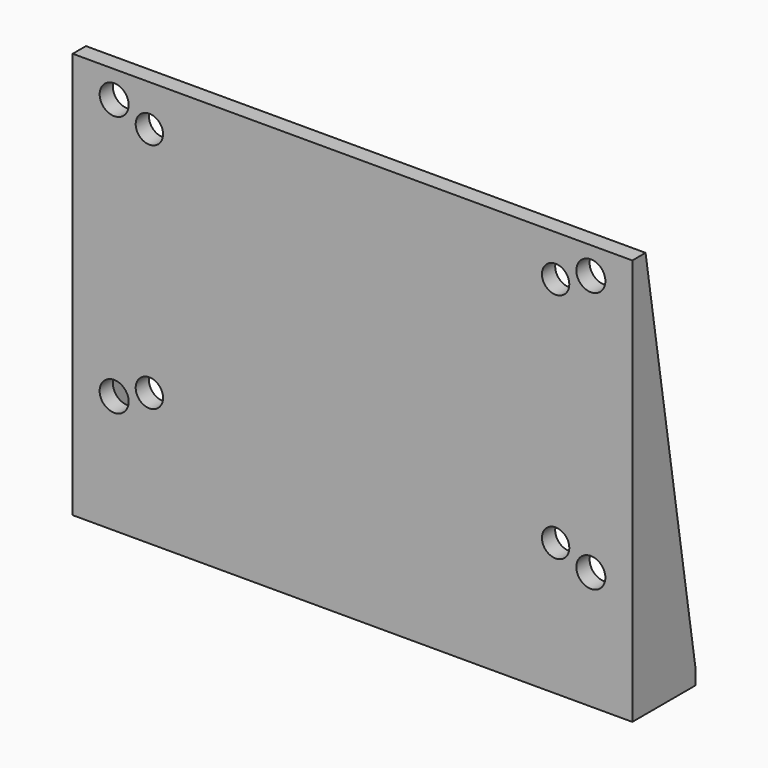
from build123d import *

# Parameters (mm, degrees)
SKETCH_W        = 67.5
SKETCH_H        = 49
SKETCH_R        = 1.75
PAD_DEPTH       = 2
SKETCH001_W     = 67.5
SKETCH001_H     = 2
PAD001_DEPTH    = 7.5
PAD002_DEPTH    = 1.5
SKETCH003_R     = 1.6
POCKET_DEPTH    = 2.001
FILLET_R        = 1
SKETCH004_R     = 1.65
POCKET001_DEPTH = 9.501


with BuildPart() as part:
    # Sketch → Pad (new body)
    with BuildSketch(Plane.XZ):
        with Locations((0, 24.5)):
            Rectangle(SKETCH_W, SKETCH_H)
        with Locations((-28.75, 45.75)):
            Circle(SKETCH_R, mode=Mode.SUBTRACT)
        with Locations((-28.75, 14.25)):
            Circle(SKETCH_R, mode=Mode.SUBTRACT)
        with Locations((28.75, 45.75)):
            Circle(SKETCH_R, mode=Mode.SUBTRACT)
        with Locations((28.75, 14.25)):
            Circle(SKETCH_R, mode=Mode.SUBTRACT)
    extrude(amount=PAD_DEPTH)

    # Sketch001 (on Face9 of Pad) → Pad001 (join)
    with BuildSketch(Plane(origin=(0, 0, 0), x_dir=(1, 0, 0), z_dir=(0, 1, 0))):
        with Locations((0, -1)):
            Rectangle(SKETCH001_W, SKETCH001_H)
    extrude(amount=PAD001_DEPTH)

    # Sketch002 (on Face12 of Pad001) → Pad002 (join)
    with BuildSketch(Plane(origin=(33.75, 0, 0), x_dir=(0, 0, 1), z_dir=(1, 0, 0))):
        Polygon((2, 0), (2, -7.5), (49, 0), align=None)
    pad002 = extrude(amount=-PAD002_DEPTH)

    # Mirrored: Pad002 across YZ
    add(pad002.mirror(Plane.YZ))

    # Sketch003 (on Face13 of Mirrored) → Pocket (cut, through all)
    with BuildSketch(Plane(origin=(0, 0, 2), x_dir=(-1, 0, 0), z_dir=(0, 0, 1))):
        with Locations((-22.5, -3.75)):
            Circle(SKETCH003_R)
        with Locations((22.5, -3.75)):
            Circle(SKETCH003_R)
    extrude(amount=-POCKET_DEPTH, mode=Mode.SUBTRACT)

    # Fillet
    fillet_edges = [part.edges().sort_by_distance(p)[0] for p in [
        (0, 0, 2),
    ]]
    fillet(fillet_edges, radius=FILLET_R)

    # Sketch004 (on Face15 of Fillet) → Pocket001 (cut, through all)
    with BuildSketch(Plane.XZ.offset(2)):
        with Locations((-24.5, 44)):
            Circle(SKETCH004_R)
        with Locations((24.5, 44)):
            Circle(SKETCH004_R)
        with Locations((24.5, 16)):
            Circle(SKETCH004_R)
        with Locations((-24.5, 16)):
            Circle(SKETCH004_R)
    extrude(amount=-POCKET001_DEPTH, mode=Mode.SUBTRACT)


solid = part.part
